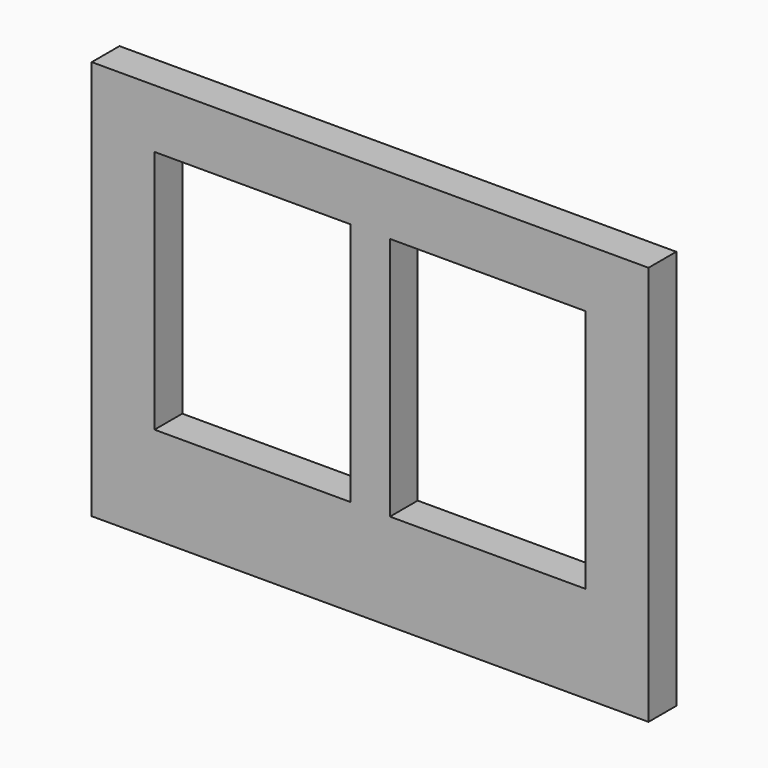
from build123d import *

# Parameters (mm, degrees)
SKETCH_W   = 3370
SKETCH_H   = 2420
SKETCH_W_2 = 1185
SKETCH_H_2 = 1480
PAD_DEPTH  = 210


with BuildPart() as part:
    # Sketch → Pad (new body)
    with BuildSketch(Plane.XZ):
        with Locations((1685, 1210)):
            Rectangle(SKETCH_W, SKETCH_H)
        with Locations((972.5, 1325)):
            Rectangle(SKETCH_W_2, SKETCH_H_2, mode=Mode.SUBTRACT)
        with Locations((2397.5, 1325)):
            Rectangle(SKETCH_W_2, SKETCH_H_2, mode=Mode.SUBTRACT)
    extrude(amount=-PAD_DEPTH)


solid = part.part
